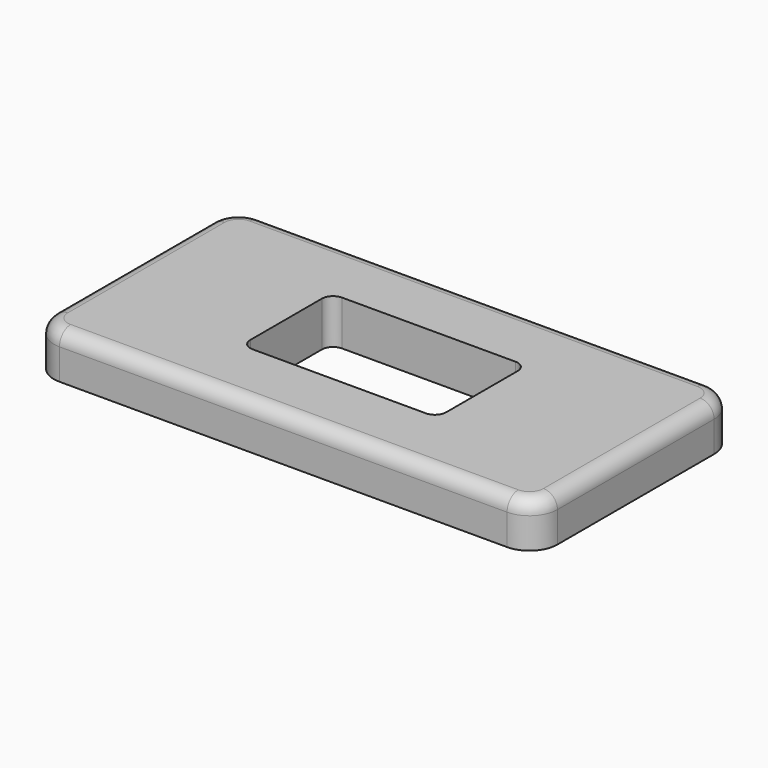
from build123d import *

# Parameters (mm, degrees)
F1_DEPTH = 8
F2_R     = 2.5
F3_T     = -1.5


with BuildPart() as f1:
    # F0 (on Top) → F1 (new body)
    with BuildSketch(Plane.XY):
        with BuildLine():
            Line((40, 22.5), (-40, 22.5))
            ThreePointArc((-40, 22.5), (-43.535534, 21.035534), (-45, 17.5))
            Line((-45, 17.5), (-45, -17.5))
            ThreePointArc((-45, -17.5), (-43.535534, -21.035534), (-40, -22.5))
            Line((-40, -22.5), (40, -22.5))
            ThreePointArc((40, -22.5), (43.535534, -21.035534), (45, -17.5))
            Line((45, -17.5), (45, 17.5))
            ThreePointArc((45, 17.5), (43.535534, 21.035534), (40, 22.5))
        make_face()
        with BuildLine():
            ThreePointArc((-17.5, 8), (-16.914214, 9.414214), (-15.5, 10))
            Line((-15.5, 10), (15.5, 10))
            ThreePointArc((15.5, 10), (16.914214, 9.414214), (17.5, 8))
            Line((17.5, 8), (17.5, -8))
            ThreePointArc((17.5, -8), (16.914214, -9.414214), (15.5, -10))
            Line((15.5, -10), (-15.5, -10))
            ThreePointArc((-15.5, -10), (-16.914214, -9.414214), (-17.5, -8))
            Line((-17.5, -8), (-17.5, 8))
        make_face(mode=Mode.SUBTRACT)
    extrude(amount=F1_DEPTH)

    # F2
    f2_edges = [f1.edges().sort_by_distance(p)[0] for p in [
        (0, -22.5, 8),
    ]]
    fillet(f2_edges, radius=F2_R)

    # F3
    f3_openings = [f1.faces().sort_by_distance(p)[0] for p in [
        (0, 21.493769, 0),
    ]]
    offset(amount=F3_T, openings=f3_openings)


solid = f1.part
